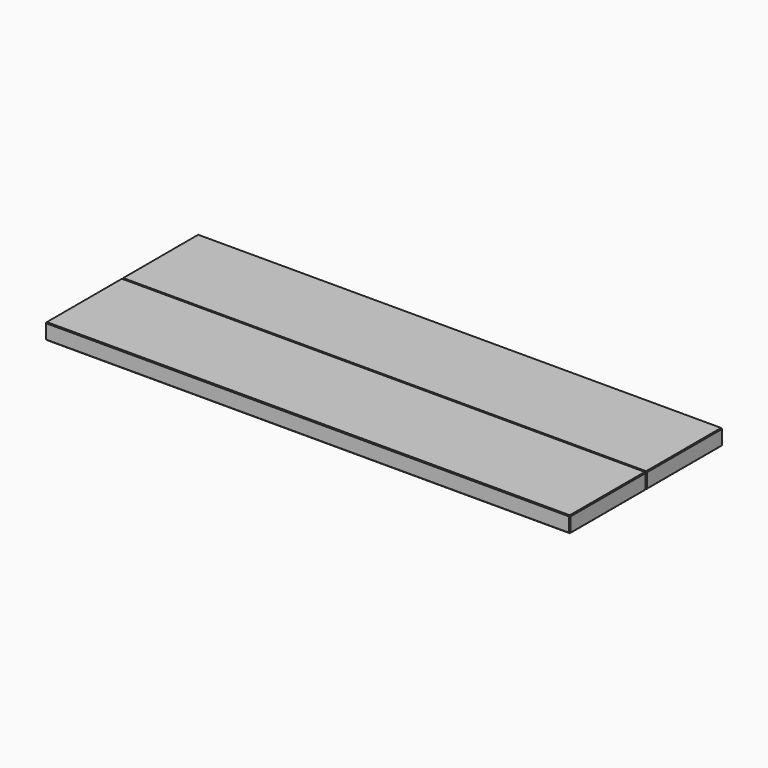
from build123d import *

# Parameters (mm, degrees)
F0_W     = 1676.4
F0_H     = 304.8
F1_DEPTH = 50.8
F2_SIZE  = 2.54


with BuildPart() as f1:
    # F0 (on Top) → F1 (new body)
    with BuildSketch(Plane.XY):
        with Locations((0, -152.4)):
            Rectangle(F0_W, F0_H)
    extrude(amount=F1_DEPTH)

    # F2
    f2_edges = [f1.edges().sort_by_distance(p)[0] for p in [
        (838.2, -152.4, 50.8),
        (0, 0, 50.8),
        (-838.2, -152.4, 50.8),
        (0, -304.8, 50.8),
        (-838.2, -304.8, 25.4),
        (838.2, -304.8, 25.4),
        (0, -304.8, 0),
        (838.2, -152.4, 0),
        (-838.2, 0, 25.4),
        (-838.2, -152.4, 0),
        (838.2, 0, 25.4),
        (0, 0, 0),
    ]]
    chamfer(f2_edges, length=F2_SIZE)

    # F3: F1 across plane


with BuildPart() as f1_1:
    add(f1.part)
    add(f1.part.mirror(Plane.XZ))


solid = f1_1.part
